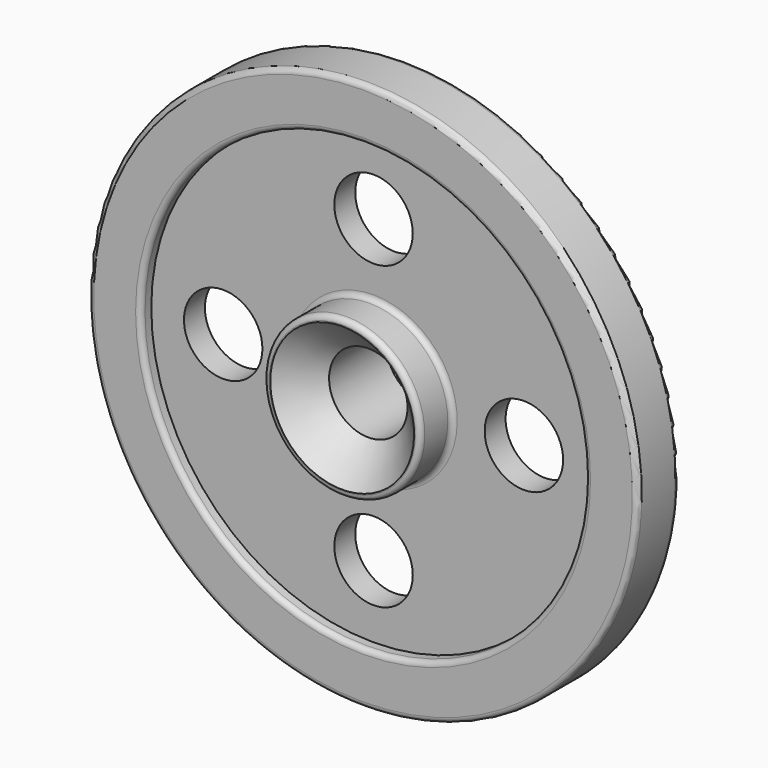
from build123d import *

# Parameters (mm, degrees)
F2_R     = 19.05
F3_DEPTH = 25.4
F4_R     = 2.54
F5_SIZE  = 15.875


with BuildPart() as f1:
    # F0 (on Right) → F1 (revolve)
    with BuildSketch(Plane.YZ):
        Polygon((-7.6199998148, 19.05), (0, 19.05), (7.6199998148, 19.05), (12.7, 19.05), (25.4, 19.05), (25.4, 38.1), (6.35, 38.1), (6.35, 107.95), (12.7, 107.95), (12.7, 133.35), (0, 133.35), (-12.7, 133.35), (-12.7, 107.95), (-6.35, 107.95), (-6.35, 38.1), (-25.4, 38.1), (-25.4, 19.05), (-12.7, 19.05), align=None)
    revolve(axis=Axis((0, 12.7, 0), (0, 1, 0)))

    # F2 (on face) → F3 (cut)
    with BuildSketch(Plane.XZ.offset(6.35)):
        with BuildLine():
            ThreePointArc((0, 53.975), (13.4703841816, 59.5546158184), (19.05, 73.025))
            ThreePointArc((19.05, 73.025), (-13.4703841816, 86.4953841816), (0, 53.975))
        make_face()
        with Locations((-73.025, 0)):
            Circle(F2_R)
        with Locations((0, -73.025)):
            Circle(F2_R)
        with Locations((73.025, 0)):
            Circle(F2_R)
    extrude(amount=-F3_DEPTH, mode=Mode.SUBTRACT)

    # F4
    f4_edges = [f1.edges().sort_by_distance(p)[0] for p in [
        (0, -6.35, -38.1),
        (0, -25.4, -38.1),
        (0, -15.875, 38.1),
        (0, -12.7, -133.35),
        (0, -12.7, -107.95),
        (0, 12.7, -107.95),
        (0, 12.7, -133.35),
        (0, 25.4, -38.1),
        (0, 6.35, -38.1),
        (0, 15.875, 38.1),
    ]]
    fillet(f4_edges, radius=F4_R)

    # F5
    f5_edges = [f1.edges().sort_by_distance(p)[0] for p in [
        (0, -25.4, -19.05),
        (0, 22.86, -38.1),
    ]]
    chamfer(f5_edges, length=F5_SIZE)


solid = f1.part
